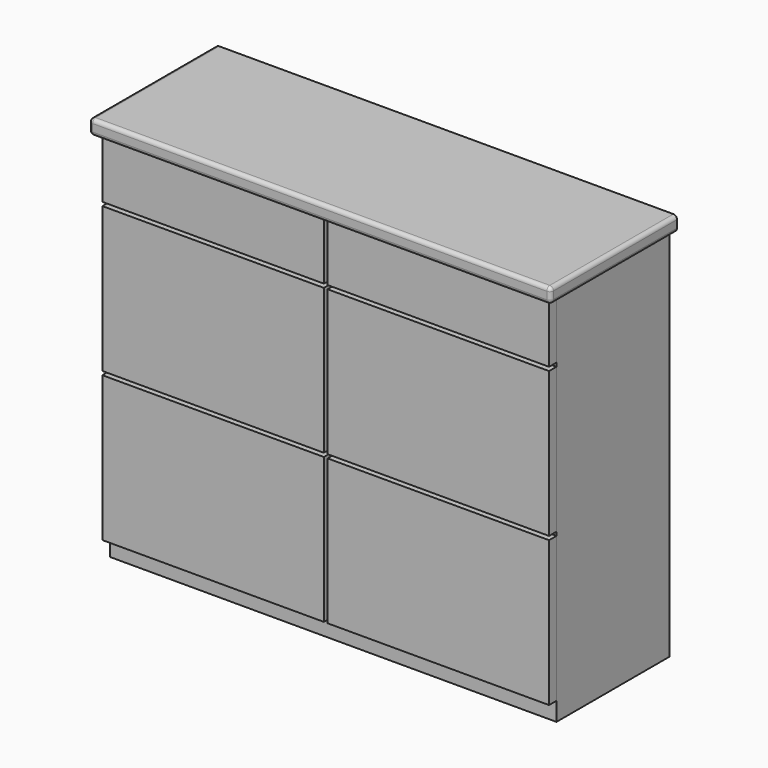
from build123d import *

# Parameters (mm, degrees)
F1_W          = 1200
F1_H          = 380
F2_DEPTH      = 1010
F3_W          = 595
F3_H          = 390
F4_DEPTH      = 25
F3_H_2        = 160
F5_W          = 425
F5_H          = 40
F6_DEPTH      = 1220
F6_DEPTH_BACK = 20
F7_R          = 10


with BuildPart() as f2:
    # F1 (on Top) → F2 (new body)
    with BuildSketch(Plane.XY):
        with Locations((600, 190)):
            Rectangle(F1_W, F1_H)
    extrude(amount=F2_DEPTH)


with BuildPart() as f4:
    # F3 (on face) → F4 (new body)
    with BuildSketch(Plane.XZ):
        with Locations((297.5, 245)):
            Rectangle(F3_W, F3_H)
    extrude(amount=F4_DEPTH)


with BuildPart() as f4b:
    # F3 (on face) → F4, piece 2 (new body)
    with BuildSketch(Plane.XZ):
        with Locations((902.5, 245)):
            Rectangle(F3_W, F3_H)
    extrude(amount=F4_DEPTH)


with BuildPart() as f4c:
    # F3 (on face) → F4, piece 3 (new body)
    with BuildSketch(Plane.XZ):
        with Locations((297.5, 645)):
            Rectangle(F3_W, F3_H)
    extrude(amount=F4_DEPTH)


with BuildPart() as f4d:
    # F3 (on face) → F4, piece 4 (new body)
    with BuildSketch(Plane.XZ):
        with Locations((902.5, 645)):
            Rectangle(F3_W, F3_H)
    extrude(amount=F4_DEPTH)


with BuildPart() as f4e:
    # F3 (on face) → F4, piece 5 (new body)
    with BuildSketch(Plane.XZ):
        with Locations((297.5, 930)):
            Rectangle(F3_W, F3_H_2)
    extrude(amount=F4_DEPTH)


with BuildPart() as f4f:
    # F3 (on face) → F4, piece 6 (new body)
    with BuildSketch(Plane.XZ):
        with Locations((902.5, 930)):
            Rectangle(F3_W, F3_H_2)
    extrude(amount=F4_DEPTH)


with BuildPart() as f6:
    # F5 (on face) → F6 (new body, two sides)
    with BuildSketch(Plane.YZ.offset(1200)) as f6_sk:
        with Locations((167.5, 1030)):
            Rectangle(F5_W, F5_H)
    extrude(amount=-F6_DEPTH)
    extrude(f6_sk.sketch, amount=F6_DEPTH_BACK)

    # F7
    f7_edges = [f6.edges().sort_by_distance(p)[0] for p in [
        (-20, -45, 1030),
        (600, -45, 1010),
        (1220, -45, 1030),
        (600, -45, 1050),
        (1220, 167.5, 1010),
        (1220, 167.5, 1050),
        (-20, 167.5, 1050),
        (-20, 167.5, 1010),
    ]]
    fillet(f7_edges, radius=F7_R)


solid = Compound([f2.part, f4.part, f4b.part, f4c.part, f4d.part, f4e.part, f4f.part, f6.part])
